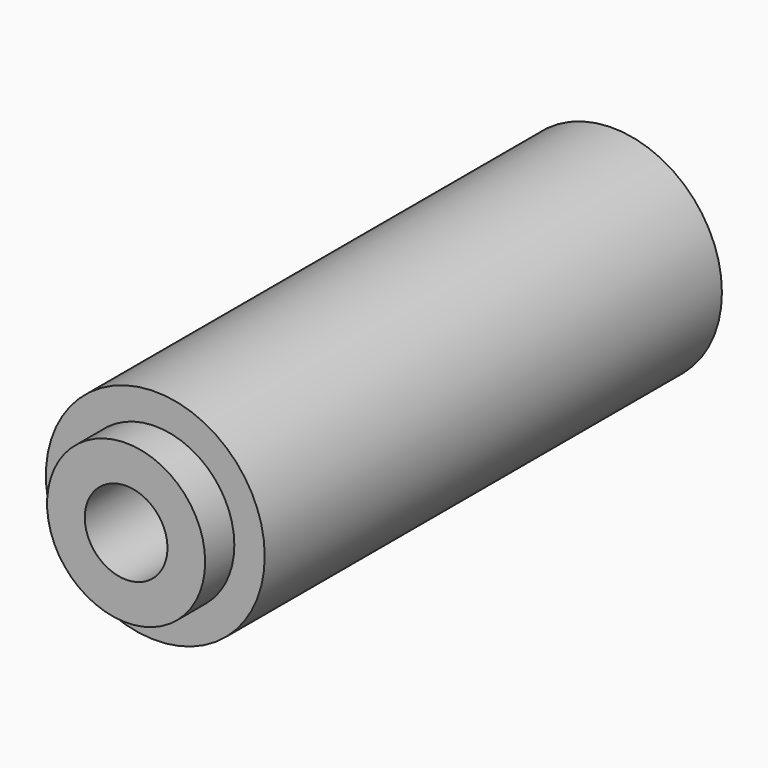
from build123d import *

# Parameters (mm, degrees)
F0_R     = 9
F1_DEPTH = 50
F2_R     = 9
F2_R_2   = 6.5
F3_DEPTH = 3
F5_D     = 6.8
F5_DEPTH = 20
F5_TIP   = 2.0429261047
F7_D     = 12
F7_DEPTH = 30
F7_TIP   = 3.6051637142


with BuildPart() as f1:
    # F0 (on Front) → F1 (new body)
    with BuildSketch(Plane.XZ):
        Circle(F0_R)
    extrude(amount=F1_DEPTH)

    # F2 (on face) → F3 (cut)
    with BuildSketch(Plane.XZ.offset(50)):
        Circle(F2_R)
        Circle(F2_R_2, mode=Mode.SUBTRACT)
    extrude(amount=-F3_DEPTH, mode=Mode.SUBTRACT)

    # F5
    with Locations(Plane.XZ.offset(50)):
        with Locations((0, 0)):
            Hole(F5_D / 2, depth=F5_DEPTH)
            with Locations((0, 0, -(F5_DEPTH + F5_TIP / 2))):  # 118° drill point
                Cone(0, F5_D / 2, F5_TIP, mode=Mode.SUBTRACT)

    # F7
    with Locations(Plane(origin=(0, 0, 0), x_dir=(-1, 0, 0), z_dir=(0, 1, 0))):
        with Locations((0, 0)):
            Hole(F7_D / 2, depth=F7_DEPTH)
            with Locations((0, 0, -(F7_DEPTH + F7_TIP / 2))):  # 118° drill point
                Cone(0, F7_D / 2, F7_TIP, mode=Mode.SUBTRACT)


solid = f1.part
